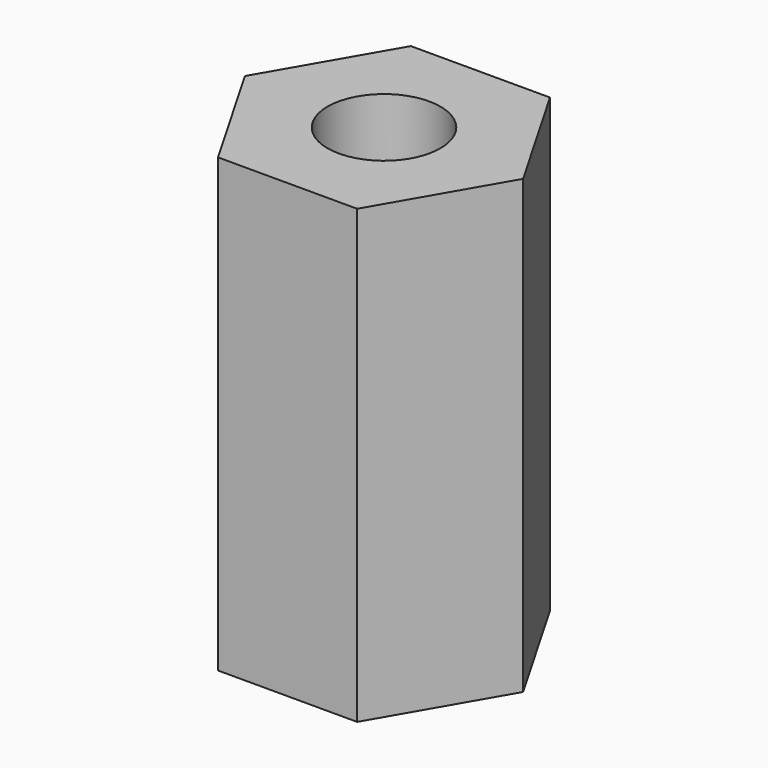
from build123d import *

# Parameters (mm, degrees)
F1_DEPTH = 10
F2_D     = 2.5


with BuildPart() as f1:
    # F0 (on Top) → F1 (new body)
    with BuildSketch(Plane.XY):
        Polygon((1.54, 2.6673582437), (-1.54, 2.6673582437), (-3.08, 0), (-1.54, -2.6673582437), (1.54, -2.6673582437), (3.08, 0), align=None)
    extrude(amount=F1_DEPTH)

    # F2 (through all)
    with Locations(Plane(origin=(0, 0, 0), x_dir=(1, 0, 0), z_dir=(0, 0, -1))):
        with Locations((0, 0)):
            Hole(F2_D / 2)


solid = f1.part
